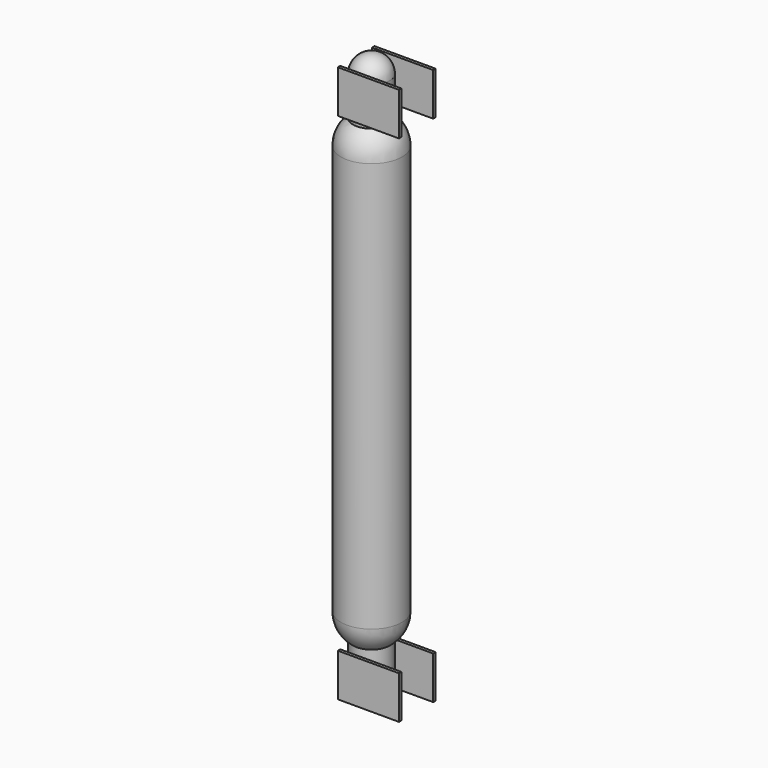
from build123d import *

# Parameters (mm, degrees)
SPHERE_ANGLE              = 180
SPHERE001_ANGLE           = 180
SPHERE002_ANGLE           = 180
CYLINDER003_R             = 3
CYLINDER003_DEPTH         = 6.35
SPHERE003_ANGLE           = 180
CYLINDER004_R             = 3
CYLINDER004_DEPTH         = 6.35
FUSION002_PLACEMENT_ANGLE = 180
BOX002_W                  = 10
BOX002_H                  = 0.5
BOX002_DEPTH              = 7
BOX001_W                  = 10
BOX001_H                  = 0.5
BOX001_DEPTH              = 7
BOX004_W                  = 10
BOX004_H                  = 0.5
BOX004_DEPTH              = 7
BOX003_W                  = 10
BOX003_H                  = 0.5
BOX003_DEPTH              = 7
CYLINDER_R                = 5
CYLINDER_DEPTH            = 67


with BuildPart() as sphere:
    # Sphere → Sphere (revolve)
    with BuildSketch(Plane(origin=(-7.5, 7.5, 20), x_dir=(1, 0, 0), z_dir=(0, 0, 1))):
        with BuildLine():
            ThreePointArc((0, -5), (5, 0), (0, 5))
            Line((0, 5), (0, -5))
        make_face()
    revolve(axis=Axis((-7.5, 7.5, 20), (0, 1, 0)), revolution_arc=SPHERE_ANGLE)


with BuildPart() as sphere001:
    # Sphere001 → Sphere001 (revolve)
    with BuildSketch(Plane(origin=(-7.5, 7.5, 87), x_dir=(1, 0, 0), z_dir=(0, 0, -1))):
        with BuildLine():
            ThreePointArc((0, -5), (5, 0), (0, 5))
            Line((0, 5), (0, -5))
        make_face()
    revolve(axis=Axis((-7.5, 7.5, 87), (0, -1, 0)), revolution_arc=SPHERE001_ANGLE)


with BuildPart() as sphere002:
    # Sphere002 → Sphere002 (revolve)
    with BuildSketch(Plane(origin=(-7.5, 7.5, 9.65), x_dir=(1, 0, 0), z_dir=(0, 0, 1))):
        with BuildLine():
            ThreePointArc((0, -3), (3, 0), (0, 3))
            Line((0, 3), (0, -3))
        make_face()
    revolve(axis=Axis((-7.5, 7.5, 9.65), (0, 1, 0)), revolution_arc=SPHERE002_ANGLE)


with BuildPart() as bottomend:
    # Cylinder003 → Cylinder003 (new body)
    with BuildSketch(Plane(origin=(-7.5, 7.5, 9.65), x_dir=(1, 0, 0), z_dir=(0, 0, 1))):
        Circle(CYLINDER003_R)
    extrude(amount=CYLINDER003_DEPTH)

    # Fusion001: union Sphere002
    add(sphere002.part)


with BuildPart() as sphere003:
    # Sphere003 → Sphere003 (revolve)
    with BuildSketch(Plane(origin=(-7.5, 7.5, 9.65), x_dir=(1, 0, 0), z_dir=(0, 0, 1))):
        with BuildLine():
            ThreePointArc((0, -3), (3, 0), (0, 3))
            Line((0, 3), (0, -3))
        make_face()
    revolve(axis=Axis((-7.5, 7.5, 9.65), (0, 1, 0)), revolution_arc=SPHERE003_ANGLE)


with BuildPart() as topend:
    # Cylinder004 → Cylinder004 (new body)
    with BuildSketch(Plane(origin=(-7.5, 7.5, 9.65), x_dir=(1, 0, 0), z_dir=(0, 0, 1))):
        Circle(CYLINDER004_R)
    extrude(amount=CYLINDER004_DEPTH)

    # Fusion002: union Sphere003
    add(sphere003.part)


with BuildPart() as topend_1:
    # Fusion002 placement: moved
    add(topend.part.moved(Location((0, 15, 107))).rotate(Axis((0, 15, 107), (1, 0, 0)), FUSION002_PLACEMENT_ANGLE))


with BuildPart() as cube001:
    # Box002 → Box002 (new body)
    with BuildSketch(Plane(origin=(-10, 10.75, 8), x_dir=(1, 0, 0), z_dir=(0, 0, 1))):
        with Locations((5, 0.25)):
            Rectangle(BOX002_W, BOX002_H)
    extrude(amount=BOX002_DEPTH)


with BuildPart() as bottom_tubehold:
    # Box001 → Box001 (new body)
    with BuildSketch(Plane(origin=(-10, 3.75, 8), x_dir=(1, 0, 0), z_dir=(0, 0, 1))):
        with Locations((5, 0.25)):
            Rectangle(BOX001_W, BOX001_H)
    extrude(amount=BOX001_DEPTH)

    # Fusion003: union Cube001
    add(cube001.part)


with BuildPart() as cube003:
    # Box004 → Box004 (new body)
    with BuildSketch(Plane(origin=(-10, 10.75, 92), x_dir=(1, 0, 0), z_dir=(0, 0, 1))):
        with Locations((5, 0.25)):
            Rectangle(BOX004_W, BOX004_H)
    extrude(amount=BOX004_DEPTH)


with BuildPart() as top_tubehold:
    # Box003 → Box003 (new body)
    with BuildSketch(Plane(origin=(-10, 3.75, 92), x_dir=(1, 0, 0), z_dir=(0, 0, 1))):
        with Locations((5, 0.25)):
            Rectangle(BOX003_W, BOX003_H)
    extrude(amount=BOX003_DEPTH)

    # Fusion004: union Cube003
    add(cube003.part)


with BuildPart() as tube003:
    # Cylinder → Cylinder (new body)
    with BuildSketch(Plane(origin=(-7.5, 7.5, 20), x_dir=(1, 0, 0), z_dir=(0, 0, 1))):
        Circle(CYLINDER_R)
    extrude(amount=CYLINDER_DEPTH)

    # Fusion006: union Sphere, Sphere001, bottomend, topend, bottom_tubehold, top_tubehold
    add(sphere.part)
    add(sphere001.part)
    add(bottomend.part)
    add(topend_1.part)
    add(bottom_tubehold.part)
    add(top_tubehold.part)


solid = tube003.part
